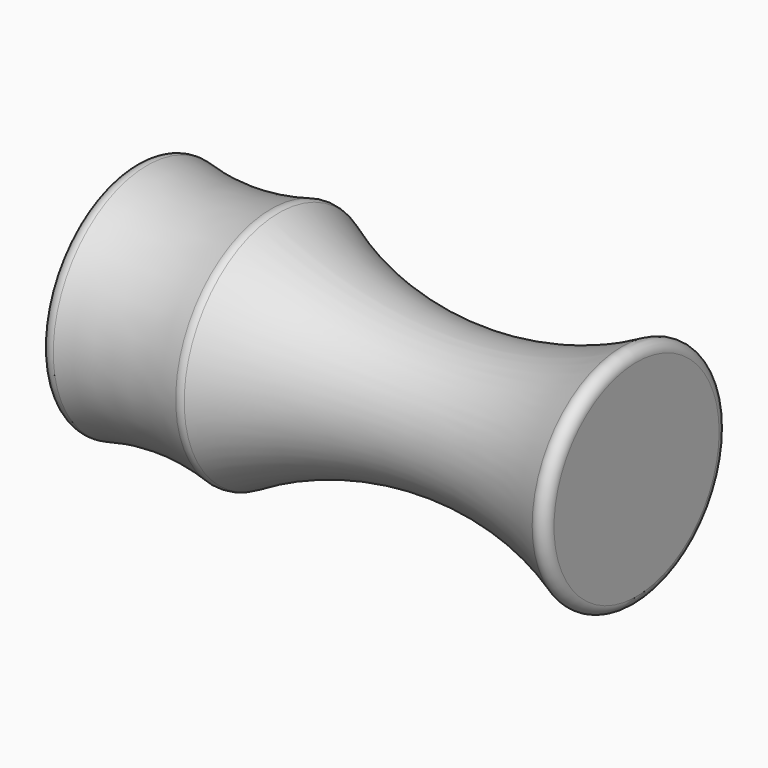
from build123d import *


with BuildPart() as f1:
    # F0 (on Top) → F1 (revolve)
    with BuildSketch(Plane.XY):
        with BuildLine():
            Line((-31.75, 0), (0, 0))
            Line((0, 0), (0, 6.527945))
            ThreePointArc((0, 6.527945), (-0.309207, 7.072998), (-0.935696, 7.087236))
            ThreePointArc((-0.935696, 7.087236), (-11.833996, 4.448683), (-22.628869, 7.48276))
            ThreePointArc((-22.628869, 7.48276), (-22.866551, 7.564328), (-23.117263, 7.54731))
            ThreePointArc((-23.117263, 7.54731), (-27.034458, 6.987305), (-30.968462, 7.41349))
            ThreePointArc((-30.968462, 7.41349), (-31.50881, 7.293764), (-31.75, 6.795629))
            Line((-31.75, 6.795629), (-31.75, 0))
        make_face()
    revolve(axis=Axis((-15.875, 0, 0), (-1, 0, 0)))


solid = f1.part
